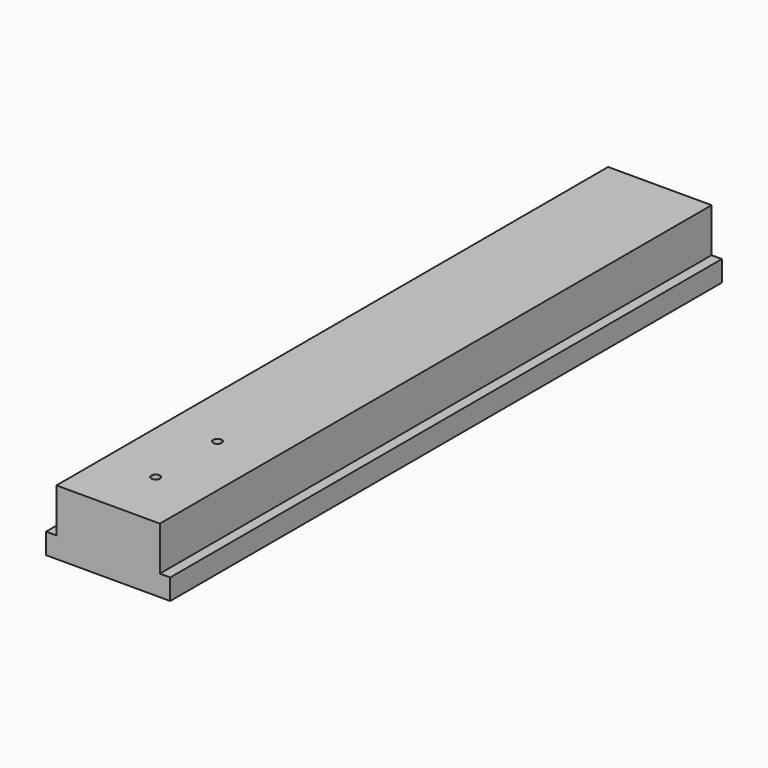
from build123d import *

# Parameters (mm, degrees)
F1_DEPTH = 127
F3_DEPTH = 25.4


with BuildPart() as f1:
    # F0 (on Front) → F1 (new body)
    with BuildSketch(Plane.XZ):
        Polygon((-11.43, 0), (0, 0), (11.43, 0), (11.43, 3.829304), (9.525, 3.829304), (9.525, 11.938), (-9.525, 11.938), (-9.525, 3.829304), (-11.43, 3.829304), align=None)
    extrude(amount=F1_DEPTH)

    # F2 (on face) → F3 (cut)
    with BuildSketch(Plane.XY.offset(11.938)):
        with BuildLine():
            ThreePointArc((0.79375, -101.8351912498), (0.5612660076, -101.2739252423), (0, -101.0414412498))
            Line((0, -101.0414412498), (0, -102.6289412498))
            ThreePointArc((0, -102.6289412498), (0.5612660076, -102.3964572574), (0.79375, -101.8351912498))
        make_face()
        with BuildLine():
            Line((0, -102.6289412498), (0, -101.0414412498))
            ThreePointArc((0, -101.0414412498), (-0.79375, -101.8351912498), (0, -102.6289412498))
        make_face()
        with BuildLine():
            Line((0, -116.8494993567), (0, -115.2619993567))
            ThreePointArc((0, -115.2619993567), (-0.79375, -116.0557493567), (0, -116.8494993567))
        make_face()
        with BuildLine():
            ThreePointArc((0.79375, -116.0557493567), (0.5612660076, -115.4944833492), (0, -115.2619993567))
            Line((0, -115.2619993567), (0, -116.8494993567))
            ThreePointArc((0, -116.8494993567), (0.5612660076, -116.6170153643), (0.79375, -116.0557493567))
        make_face()
    extrude(amount=-F3_DEPTH, mode=Mode.SUBTRACT)


solid = f1.part
